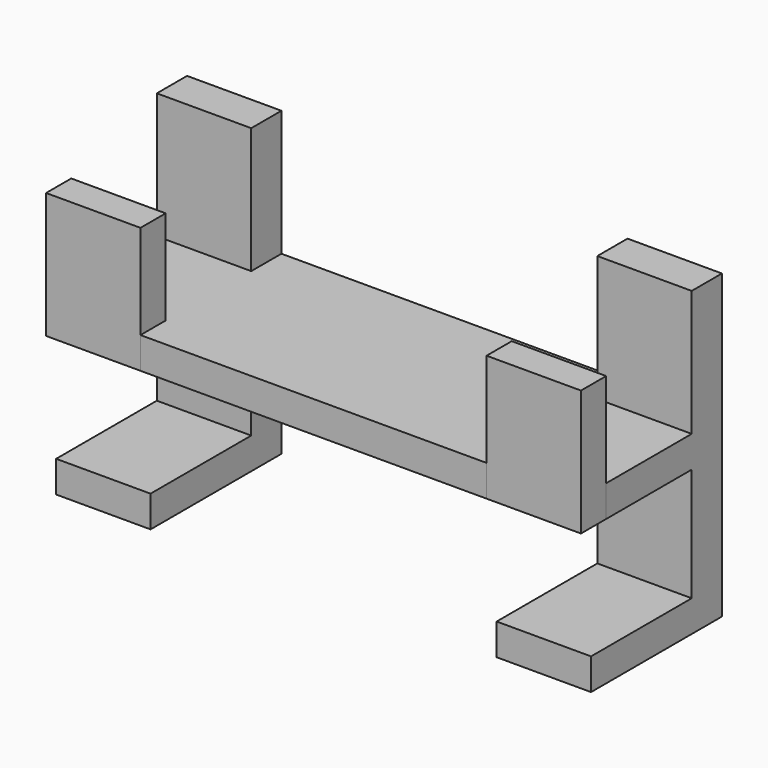
from build123d import *

# Parameters (mm, degrees)
F0_W          = 15
F0_H          = 5
F0_W_2        = 55
F0_H_2        = 6
F0_H_3        = 17
F1_DEPTH      = 5
F2_DEPTH      = 20
F3_DEPTH      = 23
F3_DEPTH_BACK = 25
F4_W          = 15
F4_H          = 5
F5_DEPTH      = 20


with BuildPart() as f1:
    # F0 (on Top) → F1 (new body)
    with BuildSketch(Plane.XY):
        with Locations((-35, -25.5)):
            Rectangle(F0_W, F0_H)
        with Locations((0, -25.5)):
            Rectangle(F0_W_2, F0_H)
        with Locations((35, -25.5)):
            Rectangle(F0_W, F0_H)
        with Locations((35, -3)):
            Rectangle(F0_W, F0_H_2)
        with Locations((0, -3)):
            Rectangle(F0_W_2, F0_H_2)
        with Locations((-35, -3)):
            Rectangle(F0_W, F0_H_2)
        with Locations((-35, -14.5)):
            Rectangle(F0_W, F0_H_3)
        with Locations((0, -14.5)):
            Rectangle(F0_W_2, F0_H_3)
        with Locations((35, -14.5)):
            Rectangle(F0_W, F0_H_3)
    extrude(amount=F1_DEPTH)

    # F0 (on Top) → F3 (join, two sides)
    with BuildSketch(Plane.XY) as f3_sk:
        with Locations((-35, -3)):
            Rectangle(F0_W, F0_H_2)
        with Locations((35, -3)):
            Rectangle(F0_W, F0_H_2)
    extrude(amount=-F3_DEPTH)
    extrude(f3_sk.sketch, amount=F3_DEPTH_BACK)

    # F4 (on face) → F5 (join)
    with BuildSketch(Plane.XZ.offset(6)):
        with Locations((35, -20.5)):
            Rectangle(F4_W, F4_H)
        with Locations((-35, -20.5)):
            Rectangle(F4_W, F4_H)
    extrude(amount=F5_DEPTH)


with BuildPart() as f2:
    # F0 (on Top) → F2 (new body)
    with BuildSketch(Plane.XY):
        with Locations((-35, -25.5)):
            Rectangle(F0_W, F0_H)
    extrude(amount=F2_DEPTH)


with BuildPart() as f2b:
    # F0 (on Top) → F2, piece 2 (new body)
    with BuildSketch(Plane.XY):
        with Locations((35, -25.5)):
            Rectangle(F0_W, F0_H)
    extrude(amount=F2_DEPTH)


solid = Compound([f1.part, f2.part, f2b.part])
